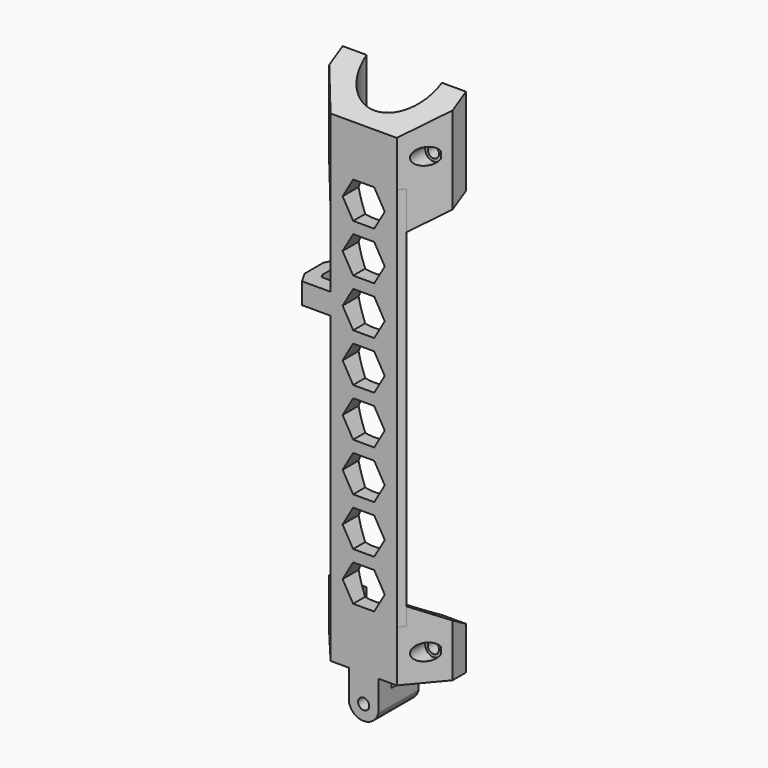
from build123d import *

# Parameters (mm, degrees)
SKETCH190_R         = 1.85
EXTRUDE136003_DEPTH = 20
EXTRUDE136010_DEPTH = 50
SKETCH193_R         = 2.75
EXTRUDE136006_DEPTH = 9
SKETCH192_R         = 1.85
EXTRUDE136005_DEPTH = 20
EXTRUDE136004_DEPTH = 38
EXTRUDE136011_DEPTH = 50
SKETCH196_R         = 2.75
EXTRUDE136009_DEPTH = 9
SKETCH195_R         = 1.85
EXTRUDE136008_DEPTH = 20
EXTRUDE136007_DEPTH = 24
EXTRUDE136012_DEPTH = 14
SKETCH200_W         = 9.75
SKETCH200_H         = 16.75
EXTRUDE136013_DEPTH = 9
EXTRUDE136014_DEPTH = 7
EXTRUDE136002_DEPTH = 128


with BuildPart() as extrude136003:
    # Sketch190 → Extrude136003 (new body)
    with BuildSketch(Plane.XZ):
        with Locations((0, -9)):
            Circle(SKETCH190_R)
        Polygon((3.5, 19.187822), (7, 25.25), (3.5, 31.312178), (-3.5, 31.312178), (-7, 25.25), (-3.5, 19.187822), align=None)
        Polygon((3.5, 35.187822), (7, 41.25), (3.5, 47.312178), (-3.5, 47.312178), (-7, 41.25), (-3.5, 35.187822), align=None)
        Polygon((3.5, 51.187822), (7, 57.25), (3.5, 63.312178), (-3.5, 63.312178), (-7, 57.25), (-3.5, 51.187822), align=None)
        Polygon((3.5, 67.187822), (7, 73.25), (3.5, 79.312178), (-3.5, 79.312178), (-7, 73.25), (-3.5, 67.187822), align=None)
        Polygon((3.5, 83.187822), (7, 89.25), (3.5, 95.312178), (-3.5, 95.312178), (-7, 89.25), (-3.5, 83.187822), align=None)
        Polygon((3.5, 99.187822), (7, 105.25), (3.5, 111.312178), (-3.5, 111.312178), (-7, 105.25), (-3.5, 99.187822), align=None)
        Polygon((3.5, 115.187822), (7, 121.25), (3.5, 127.312178), (-3.5, 127.312178), (-7, 121.25), (-3.5, 115.187822), align=None)
        Polygon((3.5, 131.187822), (7, 137.25), (3.5, 143.312178), (-3.5, 143.312178), (-7, 137.25), (-3.5, 131.187822), align=None)
        with BuildLine():
            Line((5, -8.999981), (5, -15.999981))
            Line((5, -15.999981), (-5, -15.999981))
            Line((-5, -15.999981), (-5, -8.999981))
            ThreePointArc((-5, -8.999981), (0, -14), (5, -8.999981))
        make_face()
    extrude(amount=-EXTRUDE136003_DEPTH)


with BuildPart() as extrude136010:
    # Sketch197 → Extrude136010 (new body)
    with BuildSketch(Plane.YZ):
        Polygon((0, -9.814955), (17, 0), (17, -9.814955), align=None)
        Polygon((17, 29), (0, 19.185045), (0, 29), align=None)
    extrude(amount=EXTRUDE136010_DEPTH)


with BuildPart() as extrude136010_1:
    # Extrude136010 placement: moved
    add(extrude136010.part.moved(Location((-25, 0, 0))))


with BuildPart() as extrude136006:
    # Sketch193 → Extrude136006 (new body)
    with BuildSketch(Plane.XZ):
        with Locations((-16, 0)):
            Circle(SKETCH193_R)
        with Locations((16, 0)):
            Circle(SKETCH193_R)
    extrude(amount=-EXTRUDE136006_DEPTH)


with BuildPart() as fusion034004041018:
    # Sketch192 → Extrude136005 (new body)
    with BuildSketch(Plane.XZ):
        with Locations((-16, 0)):
            Circle(SKETCH192_R)
        with Locations((16, 0)):
            Circle(SKETCH192_R)
    extrude(amount=-EXTRUDE136005_DEPTH)

    # Fusion034004041016: union Extrude136006
    add(extrude136006.part)


with BuildPart() as fusion034004041018_1:
    # Fusion034004041016 placement: moved
    add(fusion034004041018.part.moved(Location((0, 0, 13))))

    # Fusion034004041018: union Extrude136010
    add(extrude136010_1.part)


with BuildPart() as cut009010006006004:
    # Sketch191 → Extrude136004 (new body)
    with BuildSketch(Plane.XY):
        with BuildLine():
            Line((-11, 0), (11, 0))
            Line((20.5, 11.321659), (11, 0))
            Line((20.5, 11.321659), (20.5, 16.890918))
            Line((20.5, 16.890918), (12.499524, 16.890918))
            ThreePointArc((-12.499524, 16.890918), (0, 4.5), (12.499524, 16.890918))
            Line((-20.5, 16.890918), (-12.499524, 16.890918))
            Line((-20.5, 11.321659), (-20.5, 16.890918))
            Line((-20.5, 11.321659), (-11, 0))
        make_face()
    extrude(amount=EXTRUDE136004_DEPTH)


with BuildPart() as cut009010006006004_1:
    # Extrude136004 placement: moved
    add(cut009010006006004.part.moved(Location((0, 0, -9))))

    # Cut009010006006004: cut Fusion034004041018
    add(fusion034004041018_1.part, mode=Mode.SUBTRACT)


with BuildPart() as cut009010006006004_2:
    # Cut009010006006004 placement: moved
    add(cut009010006006004_1.part.moved(Location((0, 0, 141))))


with BuildPart() as extrude136011:
    # Sketch198 → Extrude136011 (new body)
    with BuildSketch(Plane.YZ):
        Polygon((0, 24), (17, 24), (17, 14.185045), align=None)
    extrude(amount=EXTRUDE136011_DEPTH)


with BuildPart() as extrude136011_1:
    # Extrude136011 placement: moved
    add(extrude136011.part.moved(Location((-25, 0, 0))))


with BuildPart() as extrude136009:
    # Sketch196 → Extrude136009 (new body)
    with BuildSketch(Plane.XZ):
        with Locations((-16, 0)):
            Circle(SKETCH196_R)
        with Locations((16, 0)):
            Circle(SKETCH196_R)
    extrude(amount=-EXTRUDE136009_DEPTH)


with BuildPart() as fusion034004041017:
    # Sketch195 → Extrude136008 (new body)
    with BuildSketch(Plane.XZ):
        with Locations((-16, 0)):
            Circle(SKETCH195_R)
        with Locations((16, 0)):
            Circle(SKETCH195_R)
    extrude(amount=-EXTRUDE136008_DEPTH)

    # Fusion034004041017: union Extrude136009
    add(extrude136009.part)


with BuildPart() as fusion034004041017_1:
    # Fusion034004041017 placement: moved
    add(fusion034004041017.part.moved(Location((0, 0, 9))))


with BuildPart() as cut009010006006005:
    # Sketch194 → Extrude136007 (new body)
    with BuildSketch(Plane.XY):
        with BuildLine():
            Line((-11, 0), (11, 0))
            Line((20.5, 11.321659), (11, 0))
            Line((20.5, 11.321659), (20.5, 16.890918))
            Line((20.5, 16.890918), (12.499524, 16.890918))
            ThreePointArc((-12.499524, 16.890918), (0, 4.5), (12.499524, 16.890918))
            Line((-20.5, 16.890918), (-12.499524, 16.890918))
            Line((-20.5, 11.321659), (-20.5, 16.890918))
            Line((-20.5, 11.321659), (-11, 0))
        make_face()
    extrude(amount=EXTRUDE136007_DEPTH)

    # Cut009010006006003: cut Fusion034004041017
    add(fusion034004041017_1.part, mode=Mode.SUBTRACT)

    # Cut009010006006005: cut Extrude136011
    add(extrude136011_1.part, mode=Mode.SUBTRACT)


with BuildPart() as extrude136012:
    # Sketch199 → Extrude136012 (new body)
    with BuildSketch(Plane.XY):
        with BuildLine():
            Line((-4.875, 0), (4.875, 0))
            Line((4.875, 5.489814), (4.875, 0))
            ThreePointArc((-4.875, 5.489814), (0, 4.5), (4.875, 5.489814))
            Line((-4.875, 5.489814), (-4.875, 0))
        make_face()
    extrude(amount=-EXTRUDE136012_DEPTH)


with BuildPart() as extrude136013:
    # Sketch200 → Extrude136013 (new body)
    with BuildSketch(Plane.XY):
        with Locations((0, 8.375)):
            Rectangle(SKETCH200_W, SKETCH200_H)
    extrude(amount=-EXTRUDE136013_DEPTH)


with BuildPart() as extrude136013_1:
    # Extrude136013 placement: moved
    add(extrude136013.part.moved(Location((0, 0, -5))))


with BuildPart() as extrude136014:
    # Sketch201 → Extrude136014 (new body)
    with BuildSketch(Plane.XY):
        Polygon((0, 5), (0, 0), (-20.5, 0), (-22.665064, 3.75), (-22.665064, 11.75), (-20.5, 15.5), (-18, 15.5), (-18, 13), (-18.665064, 11.848076), (-18.665064, 6.151924), (-18, 5), align=None)
    extrude(amount=EXTRUDE136014_DEPTH)


with BuildPart() as extrude136014_1:
    # Extrude136014 placement: moved
    add(extrude136014.part.moved(Location((0, 0, 101))))


with BuildPart() as cut009010006006006:
    # Sketch189 → Extrude136002 (new body)
    with BuildSketch(Plane.XY):
        with BuildLine():
            Line((-11, 0), (11, 0))
            Line((11, 0), (12.678199, 2))
            Line((12.678199, 2), (7.609518, 7.083083))
            ThreePointArc((-7.609518, 7.083083), (0, 4.5), (7.609518, 7.083083))
            Line((-12.678199, 2), (-7.609518, 7.083083))
            Line((-11, 0), (-12.678199, 2))
        make_face()
    extrude(amount=EXTRUDE136002_DEPTH)


with BuildPart() as cut009010006006006_1:
    # Extrude136002 placement: moved
    add(cut009010006006006.part.moved(Location((0, 0, 17))))

    # Fusion034004041019: union Cut009010006006004, Cut009010006006005, Extrude136012, Extrude136013, Extrude136014
    add(cut009010006006004_2.part)
    add(cut009010006006005.part)
    add(extrude136012.part)
    add(extrude136013_1.part)
    add(extrude136014_1.part)

    # Cut009010006006006: cut Extrude136003
    add(extrude136003.part, mode=Mode.SUBTRACT)


solid = cut009010006006006_1.part
